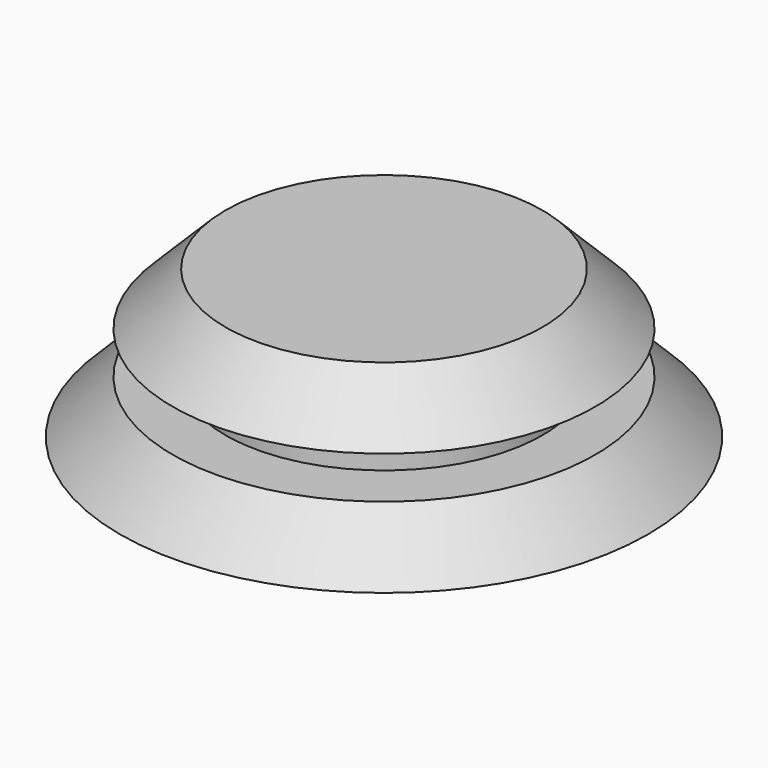
from build123d import *


with BuildPart() as f1:
    # F0 (on Front) → F1 (revolve)
    with BuildSketch(Plane.XZ):
        Polygon((1.5875, 1.5875), (0, 0), (1.5875, 0), (1.5875, -1.27), (0, -1.27), (0, -2.8575), (2.69875, -2.8575), (4.826, -0.73025), (6.35, 0.79375), (6.35, 1.5875), align=None)
        Polygon((0, -2.8575), (0, -1.27), (-1.5875, -2.8575), align=None)
        Polygon((4.826, -2.8575), (4.826, -0.73025), (2.69875, -2.8575), align=None)
    revolve(axis=Axis((6.35, 0, 1.190625), (0, 0, -1)))


solid = f1.part
